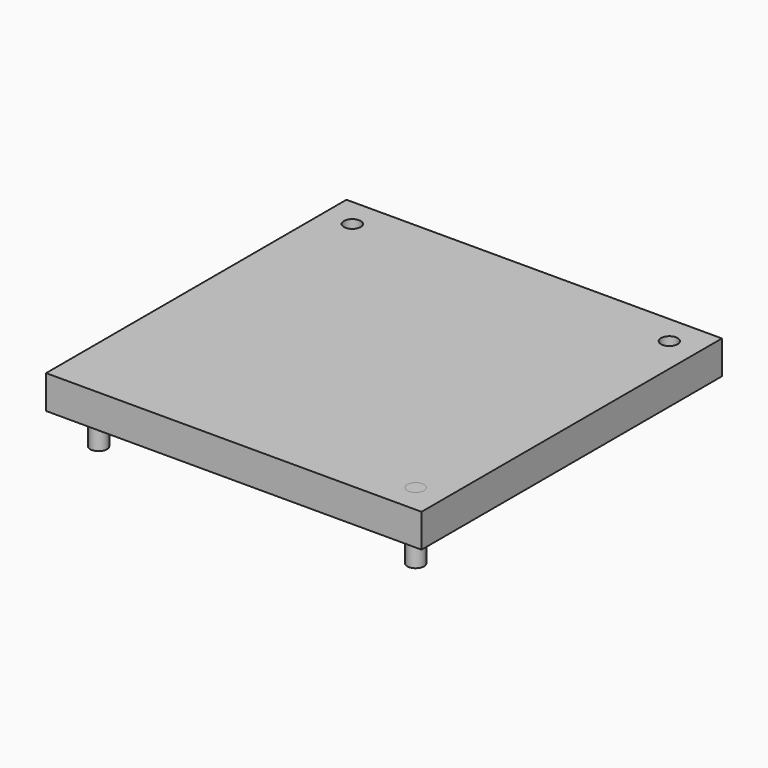
from build123d import *

# Parameters (mm, degrees)
F1_W     = 450
F1_H     = 450
F1_R     = 10
F2_DEPTH = 40
F3_R     = 10
F4_DEPTH = 80
F5_DEPTH = 80


with BuildPart() as f2:
    # F1 (on face) → F2 (new body)
    with BuildSketch(Plane.XY):
        Rectangle(F1_W, F1_H)
        with Locations((-190, -190)):
            Circle(F1_R, mode=Mode.SUBTRACT)
        with Locations((190, -190)):
            Circle(F1_R, mode=Mode.SUBTRACT)
        with Locations((-190, 190)):
            Circle(F1_R, mode=Mode.SUBTRACT)
        with Locations((190, 190)):
            Circle(F1_R, mode=Mode.SUBTRACT)
    extrude(amount=F2_DEPTH)

    # F3 (on face) → F4 (join)
    with BuildSketch(Plane.XY.offset(40)):
        with Locations((-190, -190)):
            Circle(F3_R)
    extrude(amount=-F4_DEPTH)


with BuildPart() as f5:
    # F3 (on face) → F5 (new body)
    with BuildSketch(Plane.XY.offset(40)):
        with Locations((190, -190)):
            Circle(F3_R)
    extrude(amount=-F5_DEPTH)


solid = Compound([f2.part, f5.part])
